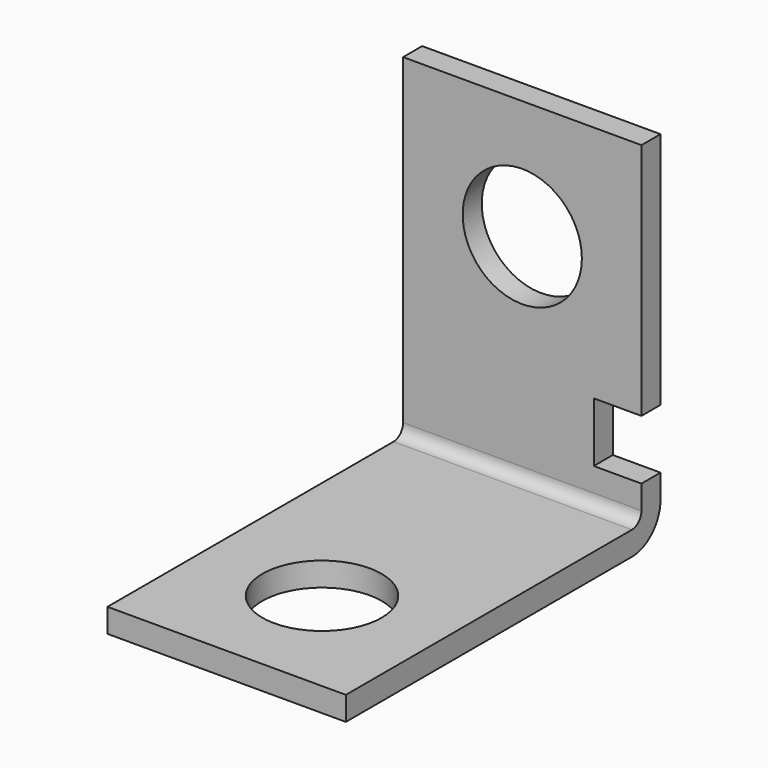
from build123d import *

# Parameters (mm, degrees)
F1_DEPTH = 20
F2_R     = 5
F2_W     = 4
F2_H     = 5
F3_DEPTH = 25
F4_R     = 5
F5_DEPTH = 25


with BuildPart() as f1:
    # F0 (on Right) → F1 (new body)
    with BuildSketch(Plane.YZ):
        with BuildLine():
            Line((0, 2), (0, 0))
            Line((0, 0), (30, 0))
            ThreePointArc((30, 0), (32.12132, 0.87868), (33, 3))
            Line((33, 3), (33, 30))
            Line((33, 30), (31, 30))
            Line((31, 30), (31, 3))
            ThreePointArc((31, 3), (30.707107, 2.292893), (30, 2))
            Line((30, 2), (0, 2))
        make_face()
    extrude(amount=F1_DEPTH)

    # F2 (on face) → F3 (cut)
    with BuildSketch(Plane.XZ.offset(-31)):
        with Locations((10, 20)):
            Circle(F2_R)
        with Locations((18, 7.5)):
            Rectangle(F2_W, F2_H)
    extrude(amount=-F3_DEPTH, mode=Mode.SUBTRACT)

    # F4 (on face) → F5 (cut)
    with BuildSketch(Plane.XY.offset(2)):
        with Locations((10, 10)):
            Circle(F4_R)
    extrude(amount=-F5_DEPTH, mode=Mode.SUBTRACT)


solid = f1.part
